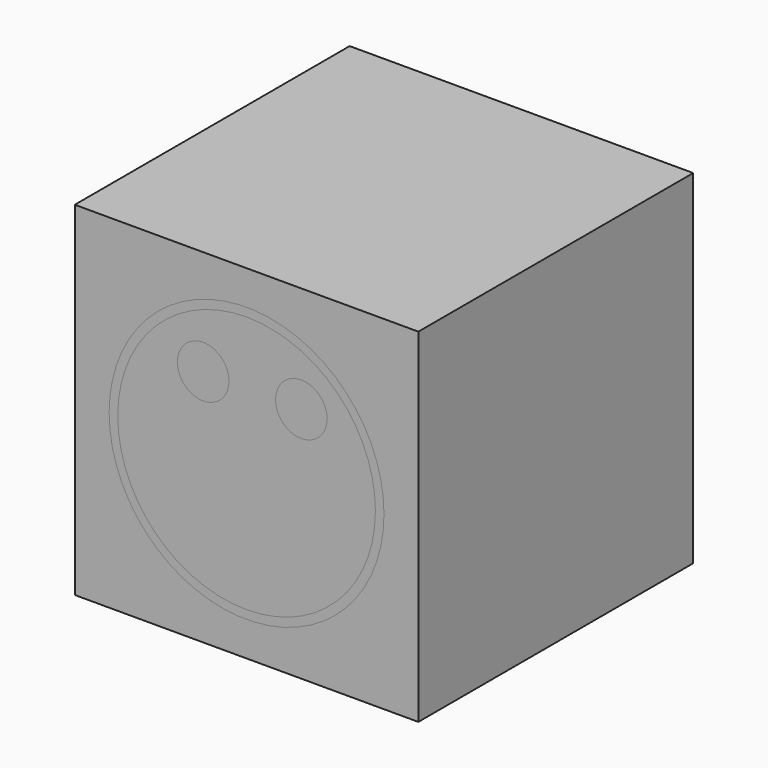
from build123d import *

# Parameters (mm, degrees)
F0_W     = 20
F0_H     = 20
F1_DEPTH = 20
F4_W     = 0.5
F4_H     = 0.2
F7_R     = 1.5
F8_DEPTH = 0.2
F9_DEPTH = 0.2


with BuildPart() as f1:
    # F0 (on Front) → F1 (new body)
    with BuildSketch(Plane.XZ):
        Rectangle(F0_W, F0_H)
    extrude(amount=F1_DEPTH)

    # F6: sweep along a path in F2
    with BuildLine(Plane.XZ.offset(20)) as f6_path:
        CenterArc((0, 0), 8, 0, 360)
    # F4 (on 3pt) → F6 (sweep, cut)
    with BuildSketch(Plane(origin=(0, 0, 0), x_dir=(1, 0, 0), z_dir=(0, 0, -1))):
        with Locations((7.75, 19.9)):
            Rectangle(F4_W, F4_H)
    sweep(path=f6_path.line, mode=Mode.SUBTRACT)

    # F7 (on face) → F8 (cut)
    with BuildSketch(Plane.XZ.offset(20)):
        with Locations((3.1861089783, 3.8091301957)):
            Circle(F7_R)
        with Locations((-2.5258816751, 3.8792855246)):
            Circle(F7_R)
    extrude(amount=-F8_DEPTH, mode=Mode.SUBTRACT)


with BuildPart() as f5:
    # F5: sweep along a path in F2
    with BuildLine(Plane.XZ.offset(20)) as f5_path:
        CenterArc((0, 0), 8, 0, 360)
    # F4 (on 3pt) → F5 (sweep)
    with BuildSketch(Plane(origin=(0, 0, 0), x_dir=(1, 0, 0), z_dir=(0, 0, -1))):
        with Locations((7.75, 19.9)):
            Rectangle(F4_W, F4_H)
    sweep(path=f5_path.line)


with BuildPart() as f9:
    # F7 (on face) → F9 (new body)
    with BuildSketch(Plane.XZ.offset(20)):
        with Locations((-2.5258816751, 3.8792855246)):
            Circle(F7_R)
    extrude(amount=-F9_DEPTH)


with BuildPart() as f9b:
    # F7 (on face) → F9, piece 2 (new body)
    with BuildSketch(Plane.XZ.offset(20)):
        with Locations((3.1861089783, 3.8091301957)):
            Circle(F7_R)
    extrude(amount=-F9_DEPTH)


solid = Compound([f1.part, f5.part, f9.part, f9b.part])
